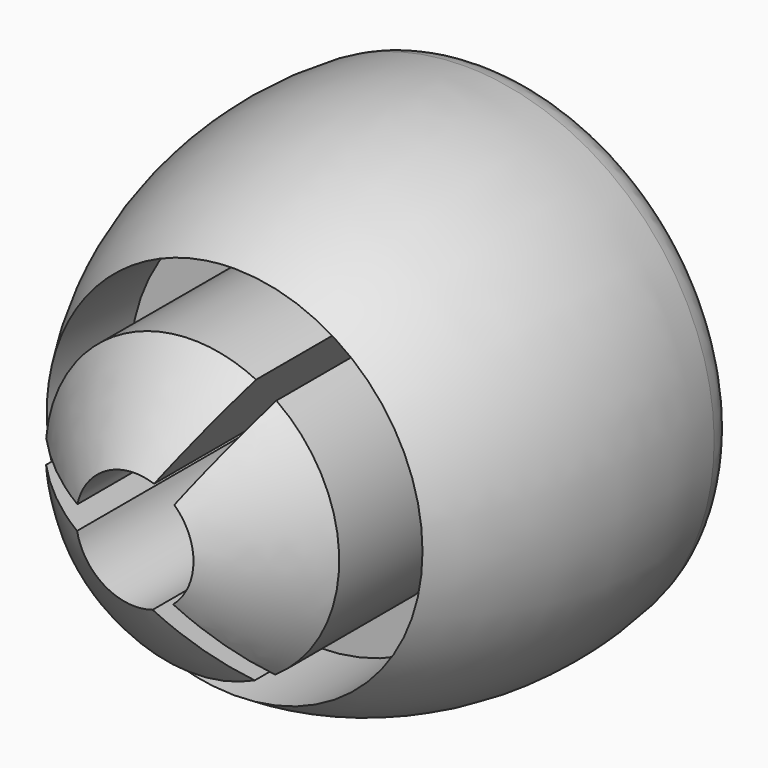
from build123d import *

# Parameters (mm, degrees)
F0_R          = 8
F0_R_2        = 6.25
F4_DEPTH      = 25
F0_R_3        = 2.5
F5_DEPTH      = 20
F5_DEPTH_BACK = 4
F6_START      = -3
F6_DEPTH      = 6.5005844247
F1_W          = 6
F1_H          = 1
F7_DEPTH      = 25
F8_R          = 2


with BuildPart() as f3:
    # F2 (on Right) → F3 (revolve)
    with BuildSketch(Plane.YZ):
        with BuildLine():
            Line((9.4995843247, 0), (9.4995843247, 10.2535216138))
            ThreePointArc((9.4995843247, 10.2535216138), (-2.6924670032, 9.0038209902), (-11.0074579716, 0))
            Line((-11.0074579716, 0), (9.4995843247, 0))
        make_face()
    revolve(axis=Axis((0, -0.7539368235, 0), (0, -1, 0)))

    # F0 (on Front) → F4 (cut)
    with BuildSketch(Plane.XZ):
        Circle(F0_R)
        Circle(F0_R_2, mode=Mode.SUBTRACT)
    extrude(amount=F4_DEPTH, mode=Mode.SUBTRACT)

    # F0 (on Front) → F5 (cut, two sides)
    with BuildSketch(Plane.XZ) as f5_sk:
        Circle(F0_R_3)
    extrude(amount=F5_DEPTH, mode=Mode.SUBTRACT)
    extrude(f5_sk.sketch, amount=-F5_DEPTH_BACK, mode=Mode.SUBTRACT)

    # F0 (on Front) → F6 (cut)
    with BuildSketch(Plane.XZ.offset(F6_START)):
        Circle(F0_R_2)
        Circle(F0_R_3, mode=Mode.SUBTRACT)
        Circle(F0_R_3)
    extrude(amount=-F6_DEPTH, mode=Mode.SUBTRACT)

    # F1 (on Front) → F7 (cut)
    with BuildSketch(Plane.XZ):
        with Locations((-4, 0.0314258505)):
            Rectangle(F1_W, F1_H)
        Polygon((0.0397717133, -1.131738329), (3.0397717133, -6.3278907517), (3.9057971171, -5.8278907517), (0.9057971171, -0.631738329), align=None)
        Polygon((0.9602282867, 0.6003124786), (3.9602282867, 5.7964649013), (3.0942028829, 6.2964649013), (0.0942028829, 1.1003124786), align=None)
    extrude(amount=F7_DEPTH, mode=Mode.SUBTRACT)

    # F8
    f8_edges = [f3.edges().sort_by_distance(p)[0] for p in [
        (0, 9.499584, -10.253522),
        (-6.25, 9.499584, 0),
    ]]
    fillet(f8_edges, radius=F8_R)


solid = f3.part
